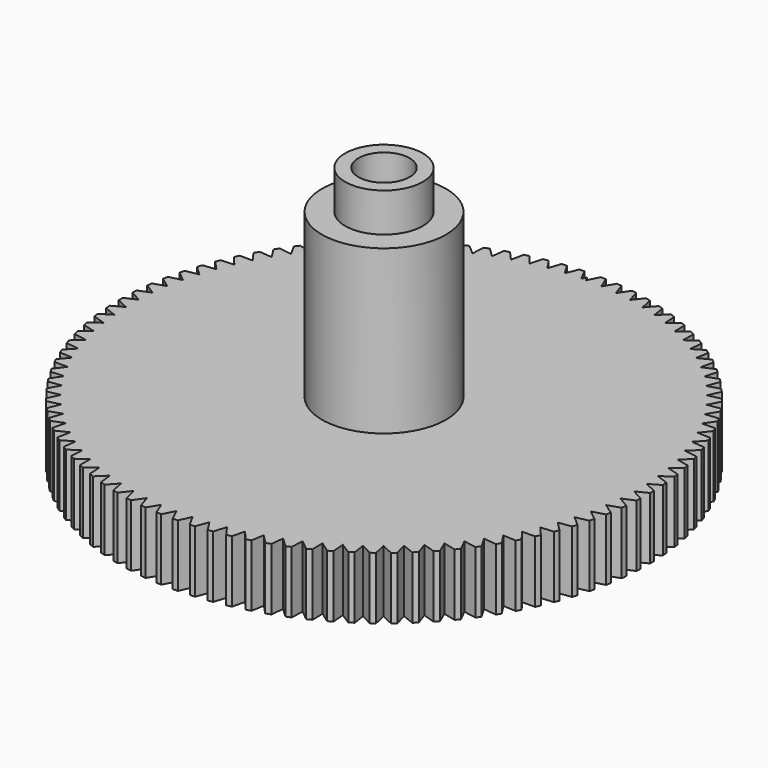
from build123d import *

# Parameters (mm, degrees)
F0_R      = 17
F1_DEPTH  = 4
F3_DEPTH  = 4.001
F4_R      = 2.5
F5_DEPTH  = 3.5
F6_R      = 4
F7_DEPTH  = 0.75
F8_R      = 4
F9_DEPTH  = 10.5
F10_R     = 2.5
F11_DEPTH = 2.5
F12_R     = 1.65
F13_DEPTH = 20.501


with BuildPart() as f1:
    # F0 (on Top) → F1 (new body)
    with BuildSketch(Plane.XY):
        Circle(F0_R)
    extrude(amount=F1_DEPTH)

    # F2 (on face) → F3 (cut, through all)
    with BuildSketch(Plane.XY.offset(4)):
        Polygon((-0.1522927571, 17.4510214588), (-0.375, 16.9958634673), (-0.1442939714, 16.5344514102), (0.0783241687, 16.9998195674), align=None)
        Polygon((-0.1442939714, 16.5344514102), (-0.375, 16.9958634673), (-0.1522927571, 17.4510214588), (-0.3099943522, 17.759564545), (-0.6715616027, 16.9867302626), (-0.2835294122, 16.2433891436), align=None)
        Polygon((0.0783241687, 16.9998195674), (-0.1442939714, 16.5344514102), (0, 16.2458634673), (0.375, 16.9958634673), (0, 17.7622698247), (-0.1522927571, 17.4510214588), align=None)
        Polygon((0.7007048032, 16.9855530607), (1.0275180108, 16.2133366873), (1.4492031849, 16.9381170774), (1.1234276463, 17.7267069601), align=None)
        Polygon((1.7736037634, 16.9072271438), (2.0509215154, 16.1158865948), (2.5176033034, 16.8125451258), (2.242356734, 17.6201607712), align=None)
        Polygon((2.8394006549, 16.7611993581), (3.0661124836, 15.9539034107), (3.5759221443, 16.6196504421), (3.3523067183, 17.4430579026), align=None)
        Polygon((3.8938276908, 16.548054445), (4.0690257706, 15.7280357667), (4.6199218654, 16.3602054375), (4.4488330095, 17.1961075299), align=None)
        Polygon((4.9326626128, 16.2686459039), (5.0556453954, 15.439188108), (5.6454219626, 16.0352490116), (5.5275447705, 16.8802985204), align=None)
        Polygon((5.9517455984, 15.9240925748), (6.0220206218, 15.0885170719), (6.6483160101, 15.6460823924), (6.5841224992, 16.4968954728), align=None)
        Polygon((6.9469959179, 15.5157741578), (6.9642817788, 14.6774268557), (7.624588104, 15.1942639257), (7.6143353254, 16.047433654), align=None)
        Polygon((7.9144282751, 15.0453256887), (7.8786557556, 14.2075635942), (8.5703289429, 14.6816028352), (8.6140579519, 15.5337128507), align=None)
        Polygon((8.850168766, 14.5146309913), (8.7614811104, 13.6808087682), (9.4817514822, 14.1101519775), (9.5792871742, 14.957790163), align=None)
        Polygon((9.7504703905, 13.9258151346), (9.6092227321, 13.09927167), (10.3552060989, 13.4821996221), (10.5061579101, 14.321971767), align=None)
        Polygon((10.611728057, 13.2812359231), (10.4184859961, 12.4652809575), (11.1871952051, 12.8002602881), (11.3909586769, 13.62880368), align=None)
        Polygon((11.4304930182, 12.583474455), (11.1860303569, 11.7813753295), (11.9743872541, 12.0670646757), (12.2301464534, 12.8810615656), align=None)
        Polygon((12.2034866811, 11.8353247874), (11.908782325, 11.0502933597), (12.7136300808, 11.2855487314), (13.020360867, 12.081739619), align=None)
        Polygon((12.9276137354, 11.0397827474), (12.5838477735, 10.2749625309), (13.4019635238, 10.4588418913), (13.75843765, 11.2340385773), align=None)
        Polygon((13.5999745478, 10.2000339362), (13.2085235276, 9.4584875123), (14.0366312788, 9.5902545504), (14.4414213104, 10.3413529028), align=None)
        Polygon((14.2178767738, 9.3194409728), (13.7803081885, 8.6041377271), (14.6150919362, 8.6832648063), (15.0665769662, 9.4072571905), align=None)
        Polygon((14.778846138, 8.4015300291), (14.2969121503, 7.7153342615), (15.135029157, 7.7415045319), (15.631401297, 8.435491854), align=None)
        Polygon((15.2806363421, 7.44997671), (14.7562667676, 6.7956361646), (15.5943609486, 6.7687448322), (16.133632568, 7.4299481483), align=None)
        Polygon((15.72123806, 6.468591335), (15.1565326399, 5.8487261977), (15.9912480018, 5.7688809439), (16.571259687, 6.3946525874), align=None)
        Polygon((16.0988869835, 5.4613036806), (15.4961069762, 4.8783960869), (16.3241010556, 4.7459166373), (16.9425302569, 5.3337508211), align=None)
        Polygon((16.4120708872, 4.4321472442), (15.773630014, 3.8885313399), (16.5915872613, 3.7039481839), (17.2459575933, 4.2514910347), align=None)
        Polygon((16.6595356839, 3.3852430927), (15.9879904634, 2.8830956873), (16.79263552, 2.6471479541), (17.4803266774, 3.1522069375), align=None)
        Polygon((16.8402904466, 2.3247833604), (16.1383299576, 1.8661152104), (16.926440771, 1.5797477092), (17.6446990216, 2.0403004099), align=None)
        Polygon((16.9536113763, 1.2550144625), (16.2240464899, 0.8416622198), (16.9924672159, 0.5060216563), (17.7384164272, 0.920223876), align=None)
        Polygon((16.9990447002, 0.1802200909), (16.2447968243, -0.1861610517), (16.9904504639, -0.5697306669), (17.7611036201, -0.2035375244), align=None)
        Polygon((16.9764084889, -0.8952959387), (16.2004978698, -1.2132388757), (16.9203985908, -1.6432016088), (17.7126697536, -1.3264838963), align=None)
        Polygon((16.885793385, -1.9672269211), (16.0913270135, -2.2354585086), (16.7825921064, -2.7100926533), (17.5933087722, -2.4441186085), align=None)
        Polygon((16.7275622399, -3.0312805066), (15.9177214099, -3.2487266608), (16.5775828313, -3.7661316323), (17.403498635, -3.5519662991), align=None)
        Polygon((16.5023486611, -4.0831958891), (15.6803762305, -4.2489858871), (16.3061916872, -4.8070898327), (17.1439994015, -4.6455907967), align=None)
        Polygon((16.2110544746, -5.1187608678), (15.3802418804, -5.232230834), (15.9695054099, -5.8287989297), (16.8158501885, -5.7206128838), align=None)
        Polygon((15.8548461143, -6.1338287138), (15.018520192, -6.1945242789), (15.5688721974, -6.8271676777), (16.4203650089, -6.7727278331), align=None)
        Polygon((15.4351499508, -7.1243347756), (14.5966596131, -7.1320128953), (15.1058963115, -7.7981982937), (15.9591275102, -7.7977226445), align=None)
        Polygon((14.9536465799, -8.0863127545), (14.1163494065, -8.0409426831), (14.5824316534, -8.7380024647), (15.4339846326, -8.7914929157), align=None)
        Polygon((14.4122640928, -9.0159105873), (13.5795128856, -8.917674001), (14.0005743409, -9.6428169185), (14.8470392139, -9.7500592771), align=None)
        Polygon((13.8131703558, -9.9094058712), (12.9882997133, -9.7586961402), (13.362654314, -10.5090184929), (14.2006415686, -10.6695833268), align=None)
        Polygon((13.1587643292, -10.7632207694), (12.3450772934, -10.560641383), (12.6712260057, -11.3331386434), (13.4973800767, -11.5463830005), align=None)
        Polygon((12.4516664608, -11.5739363377), (11.6524212913, -11.3202984876), (11.929058113, -12.1118773333), (12.7400708189, -12.3769473158), align=None)
        Polygon((11.6947081937, -12.3383062153), (10.9131053201, -12.0346255476), (11.1391225101, -12.8421162471), (11.9317463003, -13.1579504313), align=None)
        Polygon((10.8909206274, -13.0532696244), (10.1300898341, -12.7007621721), (10.3045823482, -13.5209312782), (11.0756433072, -13.8862649643), align=None)
        Polygon((10.0435223807, -13.7159636259), (9.3065102741, -13.31604094), (9.4287793894, -14.1456042369), (10.1751899459, -14.5589745137), align=None)
        Polygon((9.1559067035, -14.3237345841), (8.4456645125, -13.8779980812), (8.5152206248, -14.7136337358), (9.2339919156, -15.1733853385), align=None)
        Polygon((8.2316278888, -14.8741487925), (7.550999647, -14.384383342), (7.5675642317, -15.2227452057), (8.25581807, -15.7270371438), align=None)
        Polygon((7.2743870404, -15.3650022189), (6.626098198, -14.8331689962), (6.5896049253, -15.6709000038), (7.2445853256, -16.2177129333), align=None)
        Polygon((6.2880172525, -15.7943293315), (5.6746637624, -15.2225579645), (5.5852587629, -16.0563035768), (6.2043429772, -16.6434478864), align=None)
        Polygon((5.2764682608, -16.1604109692), (4.7005061837, -15.5509910107), (4.5585474632, -16.3774126475), (5.1392564831, -17.0025372262), align=None)
        Polygon((4.2437906264, -16.4617812256), (3.7075262962, -15.8171529854), (3.5135823021, -16.6329413937), (4.0535907856, -17.2935430456), align=None)
        Polygon((3.1941195162, -16.6972333192), (2.6997003042, -16.0199780919), (2.4545476496, -16.8218665979), (2.9516932323, -17.5153000656), align=None)
        Polygon((2.1316581442, -16.8658244256), (1.681063861, -16.1586541548), (1.3856842143, -16.9434317438), (1.8379761687, -17.6669203012), align=None)
        Polygon((1.0606609409, -16.9668794529), (0.655695908, -16.2326258712), (0.3112720624, -16.9971500465), (0.7168992688, -17.7477966172), align=None)
        Polygon((-0.0145834833, -16.9999937448), (-0.3722976581, -16.2415970352), (-0.7643865209, -16.9828064008), (-0.4070483217, -17.7576051592), align=None)
        Polygon((-1.0897695106, -16.9650347012), (-1.3988004271, -16.1855317232), (-1.8369842596, -16.9004582432), (-1.5293659624, -17.6963066508), align=None)
        Polygon((-2.1605917572, -16.8621423093), (-2.419701958, -16.0646544387), (-2.902226134, -16.7504353217), (-2.6455595395, -17.5641465506), align=None)
        Polygon((-3.2227623131, -16.6917285825), (-3.4309142394, -15.8794492121), (-3.9558465799, -16.5333383754), (-3.7511594621, -17.3616540692), align=None)
        Polygon((-4.2720279125, -16.4544759113), (-4.4283880583, -15.6306576639), (-4.9936265687, -16.2500367289), (-4.8417385593, -17.0896400503), align=None)
        Polygon((-5.304186965, -16.15133433), (-5.408129215, -15.3192760336), (-6.0114105022, -15.9016648114), (-5.9129298087, -16.749193724), align=None)
        Polygon((-6.3151063804, -15.7835177132), (-6.366214517, -14.9465511916), (-7.0051228524, -15.4896176138), (-6.9604438226, -16.3416783446), align=None)
        Polygon((-7.3007381186, -15.3524989146), (-7.2988074887, -14.5139756456), (-7.9707844819, -15.0155451031), (-7.9800860247, -15.8687257323), align=None)
        Polygon((-8.2571353993, -14.8600038694), (-8.2021737338, -14.0232815646), (-8.9045285769, -14.4813456151), (-8.967773446, -15.3322297383), align=None)
        Polygon((-9.1804685062, -14.3080046829), (-9.0726958889, -13.4764338423), (-9.8026161318, -13.8891582529), (-9.9195510747, -14.7343386619), align=None)
        Polygon((-10.0670401224, -13.6987117341), (-9.9068881088, -12.8756222295), (-10.6614509206, -13.2413543215), (-10.831607693, -14.0774466474), align=None)
        Polygon((-10.9133001355, -13.034564824), (-10.7014100249, -12.2232525654), (-11.4775938982, -12.5405278321), (-11.7002911387, -13.3641840976), align=None)
        Polygon((-11.7158598537, -12.3182234063), (-11.4530801209, -11.5219371437), (-12.2477769707, -11.789485115), (-12.5221229294, -12.5974071407), align=None)
        Polygon((-12.4715055748, -11.5525559378), (-12.1588884726, -10.7744842526), (-12.9689160822, -10.991233582), (-13.2938121913, -11.7801861933), align=None)
        Polygon((-13.1772114551, -10.7406283926), (-12.816008801, -9.9838869291), (-13.6381235643, -10.1489696839), (-14.0122688374, -10.9157936659), align=None)
        Polygon((-13.8301516256, -9.8856919846), (-13.4218097889, -9.1533109741), (-14.2527196992, -9.2660661111), (-14.6746159406, -10.0076908586), align=None)
        Polygon((-14.427711508, -8.9911701486), (-13.9738656182, -8.2860822759), (-14.8102434503, -8.3460582877), (-15.2782012544, -9.0595141015), align=None)
        Polygon((-14.9674982842, -8.0606448323), (-14.4699656834, -7.3856734913), (-15.3084623166, -7.3926302153), (-15.8206078329, -8.0750601933), align=None)
        Polygon((-15.4473504777, -7.0978421524), (-14.9081234432, -6.4556901413), (-15.7453812728, -6.4095997204), (-16.299663709, -7.0582711978), align=None)
        Polygon((-15.8653466089, -6.1066174744), (-15.2865843759, -5.4998561723), (-16.1192507574, -5.4009031671), (-16.7134505919, -6.0132186588), align=None)
        Polygon((-16.2198128897, -5.0909399744), (-15.6038330046, -4.521999045), (-16.4285736792, -4.3705796946), (-17.0603115486, -4.9440872962), align=None)
        Polygon((-16.5093299252, -4.0548767455), (-15.8585989657, -3.5260344076), (-16.6721114117, -3.3227550428), (-17.3388576383, -3.8551582491), align=None)
        Polygon((-16.7327383979, -3.0025765116), (-16.049862096, -2.5159504166), (-16.8488887531, -2.2616250321), (-17.5479734747, -2.7507919327), align=None)
        Polygon((-16.8891437098, -1.9382530145), (-16.1768565175, -1.4957917668), (-16.9581978311, -1.1914387616), (-17.6868216921, -1.6354105781), align=None)
        Polygon((-16.9779195649, -0.8661681412), (-16.2390737047, -0.4696434951), (-16.9996009376, -0.1164815946), (-17.7548462984, -0.5134805238), align=None)
        Polygon((-16.9987104764, 0.2093851425), (-16.2362645202, 0.5583853772), (-16.9729322817, 0.9589420014), (-17.7517749016, 0.6105056685), align=None)
        Polygon((-16.9514331912, 1.2840999821), (-16.1684402129, 1.5841782984), (-16.8782986529, 2.0305256913), (-17.6776198005, 1.7320472035), align=None)
        Polygon((-16.8362770223, 2.3536728804), (-16.0358723727, 2.6036276702), (-16.7160789943, 3.093978516), (-17.5326779357, 2.8466530753), align=None)
        Polygon((-16.6537030914, 3.4138209304), (-15.8390918431, 3.6126512958), (-16.4869228844, 4.1450420751), (-17.3175296999, 3.9498600507), align=None)
        Polygon((-16.404442482, 4.4602989649), (-15.5788865953, 4.6072087264), (-16.1917479366, 5.1795075788), (-17.0330366146, 5.0372505409), align=None)
        Polygon((-16.0894933122, 5.4889165559), (-15.2562985733, 5.5833174406), (-15.8317361244, 6.1932327009), (-16.6803378799, 6.1044702916), align=None)
        Polygon((-15.7101167378, 6.4955547942), (-14.8726195211, 6.5370687912), (-15.4083290487, 7.1821581664), (-16.2608458125, 7.1472458183), align=None)
        Polygon((-15.2678319023, 7.476182783), (-14.4293858106, 7.4646436571), (-14.9232221649, 8.1423240059), (-15.7762401912, 8.1614015192), align=None)
        Polygon((-14.7644098535, 8.4268737784), (-13.9283722895, 8.362327736), (-14.3783579939, 9.0698854126), (-15.2284615295, 9.1428763948), align=None)
        Polygon((-14.2018664521, 9.3438209141), (-13.3715851738, 9.2265264178), (-13.7759183437, 9.9611281382), (-14.619703306, 10.0877403105), align=None)
        Polygon((-13.5824542994, 10.2233524446), (-12.7612540148, 10.0537791785), (-13.1183155727, 10.8124833658), (-13.9524031805, 10.992209733), align=None)
        Polygon((-12.9086537167, 11.0619464482), (-12.0998227707, 10.8407734372), (-12.4081829295, 11.6205420006), (-13.2292332332, 11.8526628817), align=None)
        Polygon((-12.1831628142, 11.8562449301), (-11.3899400209, 11.5843578207), (-11.6483640094, 12.382068321), (-12.4530892646, 12.6656542308), align=None)
        Polygon((-11.4088866861, 12.6030672688), (-10.6344483598, 12.2815547827), (-10.8419013667, 13.0940129355), (-11.6270791998, 13.4279283066), align=None)
        Polygon((-10.5889257783, 13.2994229522), (-9.8363730142, 12.9295725268), (-9.9920243323, 13.7535249933), (-10.7545106437, 14.1364327234), align=None)
        Polygon((-9.7265634728, 13.9425235524), (-8.9989097294, 13.5258161854), (-9.1021360818, 14.3579636003), (-9.8388776357, 14.788330406), align=None)
        Polygon((-8.8252529401, 14.529793892), (-8.1254119725, 14.0678982111), (-8.1758000083, 14.9049083937), (-8.8838466593, 15.3810109505), align=None)
        Polygon((-7.8886033118, 15.0588823552), (-7.2193775039, 14.5536479363), (-7.2167254535, 15.392169234), (-7.8932419596, 15.9121010773), align=None)
        Polygon((-6.9203652284, 15.5276703051), (-6.2844343714, 14.9811202662), (-6.2287528545, 15.8177949752), (-6.8710302302, 16.3794741339), align=None)
        Polygon((-5.9244158205, 15.9342805669), (-5.324326382, 15.3486034667), (-5.2158383649, 16.1800812776), (-5.8213047292, 16.7812586112), align=None)
        Polygon((-4.9047431836, 16.2770849449), (-4.3428981109, 15.6546260191), (-4.1820380139, 16.4775774327), (-4.7482688884, 17.1158456376), align=None)
        Polygon((-3.8654304084, 16.5547107422), (-3.3440795064, 15.8979625127), (-3.131491464, 16.709092172), (-3.6562194818, 17.381895421), align=None)
        Polygon((-2.810639231, 16.7660462576), (-2.3318701531, 16.0776385514), (-2.0684054348, 16.8736984374), (-2.5495294195, 17.5783426143), align=None)
        Polygon((-1.7445933678, 16.9102452372), (-1.3103232564, 16.1929346557), (-0.997036858, 16.9707370937), (-1.4326302375, 17.7044005809), align=None)
    extrude(amount=-F3_DEPTH, mode=Mode.SUBTRACT)

    # F4 (on face) → F5 (join)
    with BuildSketch(Plane(origin=(0, 0, 0), x_dir=(1, 0, 0), z_dir=(0, 0, -1))):
        Circle(F4_R)
    extrude(amount=F5_DEPTH)

    # F6 (on face) → F7 (join)
    with BuildSketch(Plane(origin=(0, 0, 0), x_dir=(1, 0, 0), z_dir=(0, 0, -1))):
        Circle(F6_R)
    extrude(amount=F7_DEPTH)

    # F8 (on face) → F9 (join)
    with BuildSketch(Plane.XY.offset(4)):
        Circle(F8_R)
    extrude(amount=F9_DEPTH)

    # F10 (on face) → F11 (join)
    with BuildSketch(Plane.XY.offset(14.5)):
        Circle(F10_R)
    extrude(amount=F11_DEPTH)

    # F12 (on face) → F13 (cut, through all)
    with BuildSketch(Plane.XY.offset(17)):
        Circle(F12_R)
    extrude(amount=-F13_DEPTH, mode=Mode.SUBTRACT)


solid = f1.part
